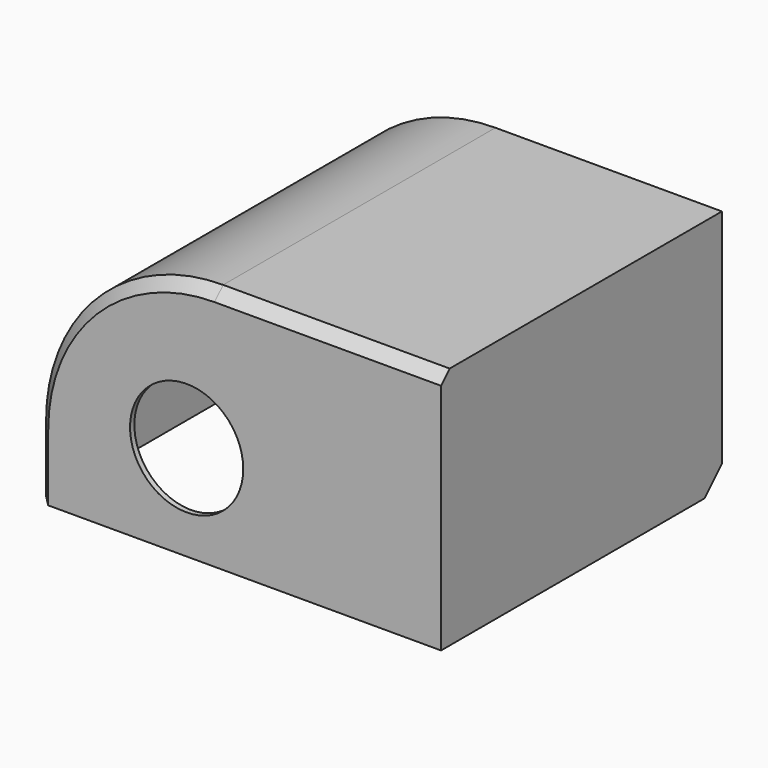
from build123d import *

# Parameters (mm, degrees)
F0_W     = 187.050685
F0_H     = 162.711885
F1_DEPTH = 113
F2_R     = 82.083261
F3_SIZE  = 5
F4_SIZE  = 10
F5_T     = -2.5
F6_R     = 26.235681
F7_DEPTH = 78


with BuildPart() as f1:
    # F0 (on Top) → F1 (new body)
    with BuildSketch(Plane.XY):
        with Locations((-0.18569, -41.488969)):
            Rectangle(F0_W, F0_H)
    extrude(amount=F1_DEPTH)

    # F2
    f2_edges = [f1.edges().sort_by_distance(p)[0] for p in [
        (-93.711033, -41.48897, 113),
    ]]
    fillet(f2_edges, radius=F2_R)

    # F3
    f3_edges = [f1.edges().sort_by_distance(p)[0] for p in [
        (40.85594, -122.844912, 113),
    ]]
    chamfer(f3_edges, length=F3_SIZE)

    # F4
    f4_edges = [f1.edges().sort_by_distance(p)[0] for p in [
        (-0.185691, 39.866973, 0),
    ]]
    chamfer(f4_edges, length=F4_SIZE)

    # F5
    f5_openings = [f1.faces().sort_by_distance(p)[0] for p in [
        (-0.145476, -46.456271, 0),
    ]]
    offset(amount=F5_T, openings=f5_openings)

    # F6 (on face) → F7 (cut)
    with BuildSketch(Plane.XZ.offset(122.844912)):
        with Locations((-24.566162, 44.215515)):
            Circle(F6_R)
    extrude(amount=-F7_DEPTH, mode=Mode.SUBTRACT)


solid = f1.part
